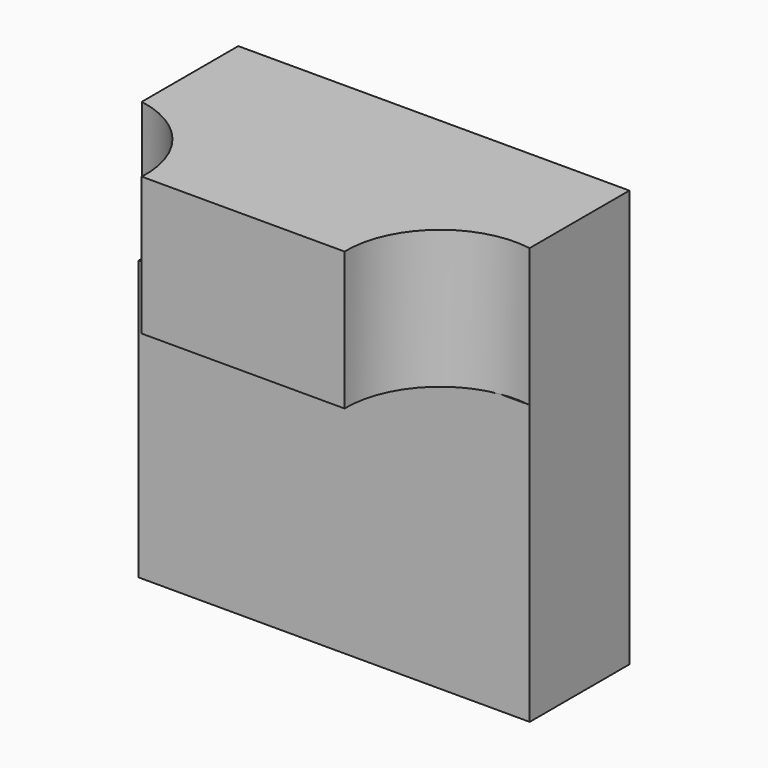
from build123d import *

# Parameters (mm, degrees)
F0_W     = 45.260496
F0_H     = 48.27787
F1_DEPTH = 25.4
F2_W     = 53.21525
F2_H     = 15.521124
F3_DEPTH = 39.375179
F4_R     = 10.887602
F4_R_2   = 11.039472
F5_DEPTH = 23.324139


with BuildPart() as f1:
    # F0 (on Front) → F1 (new body)
    with BuildSketch(Plane.XZ):
        with Locations((4e-06, -8.146919)):
            Rectangle(F0_W, F0_H)
    extrude(amount=F1_DEPTH)

    # F2 (on Top) → F3 (cut)
    with BuildSketch(Plane.XY):
        with Locations((-0.739105, -22.17301)):
            Rectangle(F2_W, F2_H)
    extrude(amount=-F3_DEPTH, mode=Mode.SUBTRACT)

    # F4 (on Top) → F5 (cut)
    with BuildSketch(Plane.XY):
        with Locations((20.871415, -25.173559)):
            Circle(F4_R)
        with Locations((-24.506071, -24.840043)):
            Circle(F4_R_2)
        with Locations((-24.506071, -24.840043)):
            Circle(F4_R_2)
    extrude(amount=F5_DEPTH, mode=Mode.SUBTRACT)


solid = f1.part
